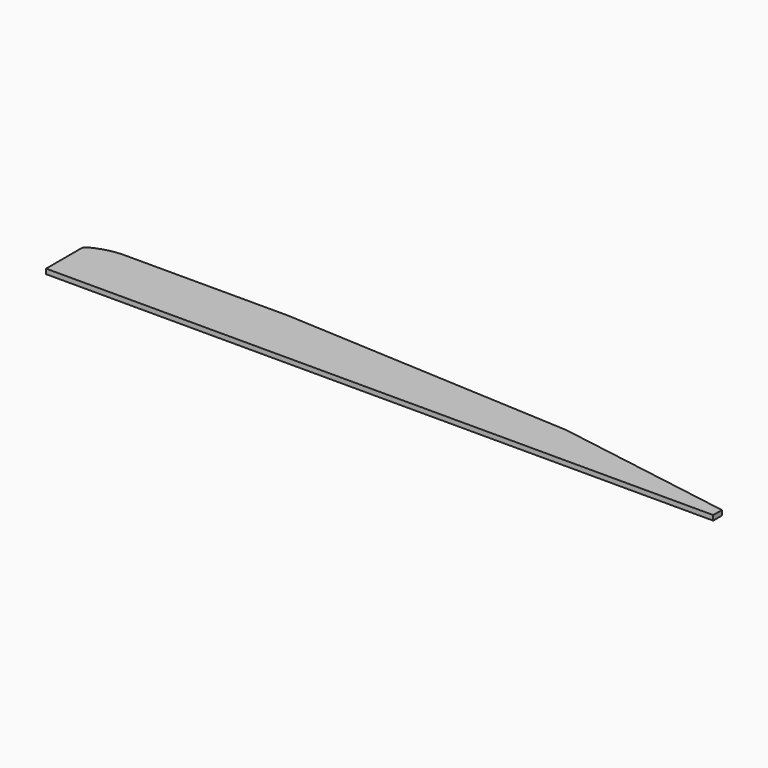
from build123d import *

# Parameters (mm, degrees)
F1_DEPTH = 4.318


with BuildPart() as f1:
    # F0 (on Top) → F1 (new body)
    with BuildSketch(Plane.XY):
        with BuildLine():
            add(Edge.make_bspline(
                [(0, 38.7419006444), (0, 40.780224347), (4.0504073247, 43.2264357913), (13.3197663427, 47.2353910075), (23.679706238, 49.0470707989), (29.4917598367, 49.0470707989)],
                knots=[0, 0, 0, 0, 0.243800261, 0.5764746481, 1, 1, 1, 1], degree=3))
            Line((0, 38.7419006444), (0, 0))
            Line((0, 0), (584.2, 0))
            Line((584.2, 0), (584.2, 9.525))
            Line((584.2, 9.525), (426.9144162536, 35.56))
            Line((426.9144162536, 35.56), (172.9129329324, 49.0470707989))
            Line((172.9129329324, 49.0470707989), (29.4917598367, 49.0470707989))
        make_face()
    extrude(amount=F1_DEPTH)


solid = f1.part
